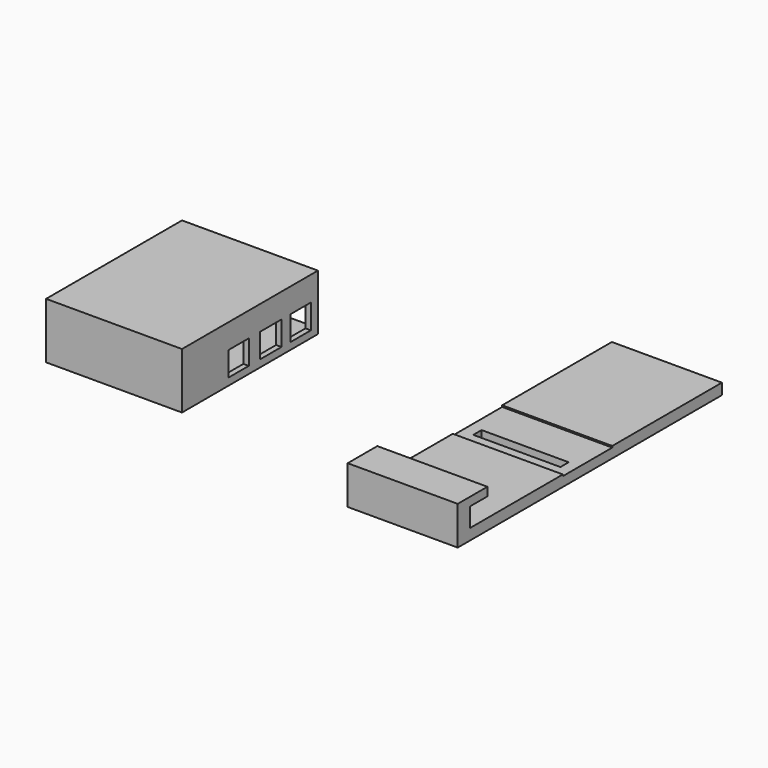
from build123d import *

# Parameters (mm, degrees)
F0_W      = 50
F0_H      = 150
F1_DEPTH  = 5
F2_W      = 16.9925941154
F2_H      = 5.7588387281
F3_DEPTH  = 56.642
F4_W      = 16.9925941154
F4_H      = 0.678097941
F4_W_2    = 11.0609598923
F5_DEPTH  = 60.96
F6_W      = 39.5601838827
F6_H      = 4.704285413
F7_DEPTH  = 25.4
F8_W      = 50
F8_H      = 6.8344867335
F9_DEPTH  = 12.5
F10_W     = 50
F10_H     = 3.8493825495
F11_DEPTH = 10
F12_W     = 61.7356710136
F12_H     = 77.1696018055
F13_DEPTH = 25.4
F14_W     = 56.8176433444
F14_H     = 11.9355437346
F15_DEPTH = 48.006
F16_W     = 11.4312767982
F16_H     = 11.0261759255
F16_W_2   = 11.4204857964
F16_H_2   = 11.145521421
F16_W_3   = 12.1373645961
F17_DEPTH = 64.008


with BuildPart() as f1:
    # F0 (on Top) → F1 (new body)
    with BuildSketch(Plane.XY):
        with Locations((84.032246843, -10.3894895421)):
            Rectangle(F0_W, F0_H)
    extrude(amount=F1_DEPTH)

    # F2 (on face) → F3 (cut)
    with BuildSketch(Plane.YZ.offset(109.032246843)):
        with Locations((-17.2116872855, 7.2013214231)):
            Rectangle(F2_W, F2_H)
    extrude(amount=-F3_DEPTH, mode=Mode.SUBTRACT)

    # F4 (on face) → F5 (cut)
    with BuildSketch(Plane(origin=(59.032246843, 0, 0), x_dir=(0, -1, 0), z_dir=(-1, 0, 0))):
        with Locations((17.2116872855, 4.6609510295)):
            Rectangle(F4_W, F4_H)
        with Locations((3.1849102816, 4.6609510295)):
            Rectangle(F4_W_2, F4_H)
    extrude(amount=-F5_DEPTH, mode=Mode.SUBTRACT)

    # F6 (on face) → F7 (cut)
    with BuildSketch(Plane(origin=(0, 0, 0), x_dir=(1, 0, 0), z_dir=(0, 0, -1))):
        with Locations((84.2039734125, 18.431045115)):
            Rectangle(F6_W, F6_H)
    extrude(amount=-F7_DEPTH, mode=Mode.SUBTRACT)

    # F8 (on face) → F9 (join)
    with BuildSketch(Plane.XY.offset(5)):
        with Locations((84.032246843, -81.9722461753)):
            Rectangle(F8_W, F8_H)
    extrude(amount=F9_DEPTH)

    # F10 (on face) → F11 (join)
    with BuildSketch(Plane(origin=(0, -78.5550028086, 0), x_dir=(-1, 0, 0), z_dir=(0, 1, 0))):
        with Locations((-84.032246843, 15.5753087252)):
            Rectangle(F10_W, F10_H)
    extrude(amount=F11_DEPTH)


with BuildPart() as f13:
    # F12 (on Top) → F13 (new body)
    with BuildSketch(Plane.XY):
        with Locations((-63.0170051008, -26.8910801969)):
            Rectangle(F12_W, F12_H)
    extrude(amount=F13_DEPTH)

    # F14 (on face) → F15 (cut)
    with BuildSketch(Plane(origin=(0, 11.6937207058, 0), x_dir=(-1, 0, 0), z_dir=(0, 1, 0))):
        with Locations((63.0026869476, 8.379339939)):
            Rectangle(F14_W, F14_H)
    extrude(amount=-F15_DEPTH, mode=Mode.SUBTRACT)

    # F16 (on face) → F17 (cut)
    with BuildSketch(Plane.YZ.offset(-32.149169594)):
        with Locations((-33.2797728479, 8.7681905134)):
            Rectangle(F16_W, F16_H)
        with Locations((1.9663505955, 8.7085177656)):
            Rectangle(F16_W_2, F16_H_2)
        with Locations((-15.0362700224, 8.7681905134)):
            Rectangle(F16_W_3, F16_H)
        with Locations((-33.2797728479, 8.7681905134)):
            Rectangle(F16_W, F16_H)
    extrude(amount=-F17_DEPTH, mode=Mode.SUBTRACT)


solid = Compound([f1.part, f13.part])
